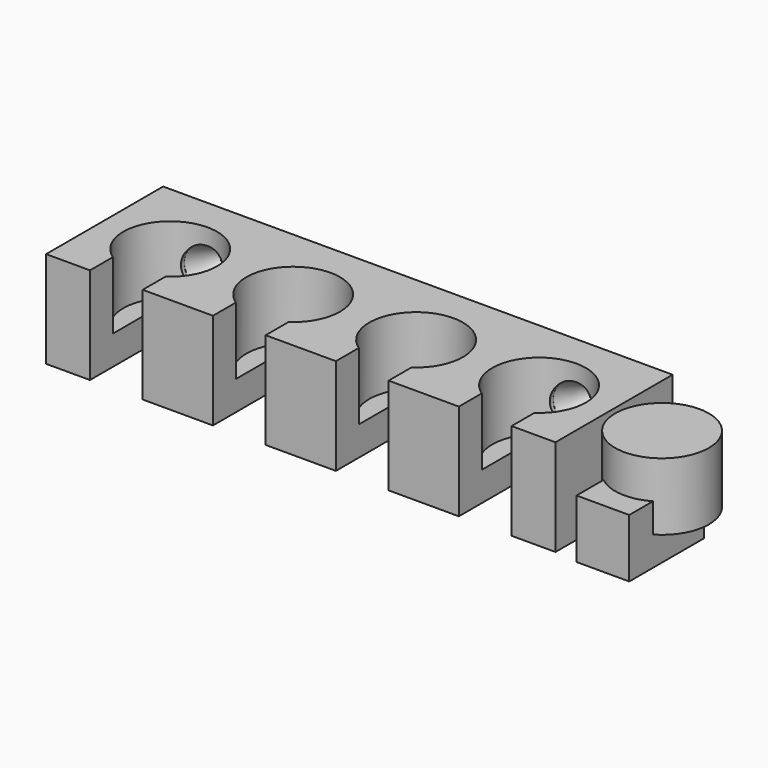
from build123d import *

# Parameters (mm, degrees)
BOX_W                  = 9
BOX_H                  = 16
BOX_DEPTH              = 10
CYLINDER_R             = 8
CYLINDER_DEPTH         = 11.5
CONE_ROLL_ANGLE        = 90
CYLINDER005_R          = 1.6
CYLINDER005_DEPTH      = 10
CYLINDER005_ROLL_ANGLE = 90
CYLINDER006_R          = 3.8
CYLINDER006_DEPTH      = 2
CYLINDER006_ROLL_ANGLE = 90
CONE001_ROLL_ANGLE     = 90
CYLINDER007_R          = 1.6
CYLINDER007_DEPTH      = 10
CYLINDER007_ROLL_ANGLE = 90
CYLINDER008_R          = 3.8
CYLINDER008_DEPTH      = 2
CYLINDER008_ROLL_ANGLE = 90
BOX002_W               = 9
BOX002_H               = 16
BOX002_DEPTH           = 18
CYLINDER002_R          = 8
CYLINDER002_DEPTH      = 11.5
BOX005_W               = 9
BOX005_H               = 16
BOX005_DEPTH           = 18
CYLINDER003_R          = 8
CYLINDER003_DEPTH      = 11.5
CYLINDER004_R          = 8
CYLINDER004_DEPTH      = 11.5
BOX003_W               = 9
BOX003_H               = 16
BOX003_DEPTH           = 18
BOX004_W               = 9
BOX004_H               = 16
BOX004_DEPTH           = 18
CYLINDER001_R          = 8
CYLINDER001_DEPTH      = 11.5
BOX001_W               = 87
BOX001_H               = 25
BOX001_DEPTH           = 16.5


with BuildPart() as cube:
    # Box → Box (new body)
    with BuildSketch(Plane(origin=(-5, -19, 0), x_dir=(1, 0, 0), z_dir=(0, 0, 1))):
        with Locations((4.5, 8)):
            Rectangle(BOX_W, BOX_H)
    extrude(amount=BOX_DEPTH)


with BuildPart() as cylinder:
    # Cylinder → Cylinder (new body)
    with BuildSketch(Plane(origin=(0, -7, 5), x_dir=(1, 0, 0), z_dir=(0, 0, 1))):
        Circle(CYLINDER_R)
    extrude(amount=CYLINDER_DEPTH)


with BuildPart() as cone:
    # Cone → Cone (revolve)
    with BuildSketch(Plane.XZ):
        Polygon((0, 0), (1.5, 0), (3.8, 4.7), (0, 4.7), align=None)
    revolve(axis=Axis((0, 0, 0), (0, 0, 1)))


with BuildPart() as cone_1:
    # Cone roll: moved
    add(cone.part.rotate(Axis((0, 0, 0), (1, 0, 0)), CONE_ROLL_ANGLE))


with BuildPart() as cone_2:
    # Cone placement: moved
    add(cone_1.part.moved(Location((-21, 0, 10))))


with BuildPart() as cylinder005:
    # Cylinder005 → Cylinder005 (new body)
    with BuildSketch(Plane.XY):
        Circle(CYLINDER005_R)
    extrude(amount=CYLINDER005_DEPTH)


with BuildPart() as cylinder005_1:
    # Cylinder005 roll: moved
    add(cylinder005.part.rotate(Axis((0, 0, 0), (1, 0, 0)), CYLINDER005_ROLL_ANGLE))


with BuildPart() as cylinder005_2:
    # Cylinder005 placement: moved
    add(cylinder005_1.part.moved(Location((-21, 10, 10))))


with BuildPart() as obj1:
    # Cylinder006 → Cylinder006 (new body)
    with BuildSketch(Plane.XY):
        Circle(CYLINDER006_R)
    extrude(amount=CYLINDER006_DEPTH)


with BuildPart() as obj1_1:
    # Cylinder006 roll: moved
    add(obj1.part.rotate(Axis((0, 0, 0), (1, 0, 0)), CYLINDER006_ROLL_ANGLE))


with BuildPart() as obj1_2:
    # Cylinder006 placement: moved
    add(obj1_1.part.moved(Location((-21, -4.7, 10))))

    # Fusion004: union Cone, Cylinder005
    add(cone_2.part)
    add(cylinder005_2.part)


with BuildPart() as obj1_3:
    # Fusion004 placement: moved
    add(obj1_2.part.moved(Location((0, 5.5, 0))))


with BuildPart() as cone001:
    # Cone001 → Cone001 (revolve)
    with BuildSketch(Plane.XZ):
        Polygon((0, 0), (1.5, 0), (3.8, 4.7), (0, 4.7), align=None)
    revolve(axis=Axis((0, 0, 0), (0, 0, 1)))


with BuildPart() as cone001_1:
    # Cone001 roll: moved
    add(cone001.part.rotate(Axis((0, 0, 0), (1, 0, 0)), CONE001_ROLL_ANGLE))


with BuildPart() as cone001_2:
    # Cone001 placement: moved
    add(cone001_1.part.moved(Location((-21, 0, 10))))


with BuildPart() as cylinder007:
    # Cylinder007 → Cylinder007 (new body)
    with BuildSketch(Plane.XY):
        Circle(CYLINDER007_R)
    extrude(amount=CYLINDER007_DEPTH)


with BuildPart() as cylinder007_1:
    # Cylinder007 roll: moved
    add(cylinder007.part.rotate(Axis((0, 0, 0), (1, 0, 0)), CYLINDER007_ROLL_ANGLE))


with BuildPart() as cylinder007_2:
    # Cylinder007 placement: moved
    add(cylinder007_1.part.moved(Location((-21, 10, 10))))


with BuildPart() as obj2:
    # Cylinder008 → Cylinder008 (new body)
    with BuildSketch(Plane.XY):
        Circle(CYLINDER008_R)
    extrude(amount=CYLINDER008_DEPTH)


with BuildPart() as obj2_1:
    # Cylinder008 roll: moved
    add(obj2.part.rotate(Axis((0, 0, 0), (1, 0, 0)), CYLINDER008_ROLL_ANGLE))


with BuildPart() as obj2_2:
    # Cylinder008 placement: moved
    add(obj2_1.part.moved(Location((-21, -4.7, 10))))

    # Fusion005: union Cone001, Cylinder007
    add(cone001_2.part)
    add(cylinder007_2.part)


with BuildPart() as obj2_3:
    # Fusion005 placement: moved
    add(obj2_2.part.moved(Location((-63, 5.5, 0))))

    # Fusion006: union obj1
    add(obj1_3.part)


with BuildPart() as cube002:
    # Box002 → Box002 (new body)
    with BuildSketch(Plane(origin=(-25.5, -19, 0), x_dir=(1, 0, 0), z_dir=(0, 0, 1))):
        with Locations((4.5, 8)):
            Rectangle(BOX002_W, BOX002_H)
    extrude(amount=BOX002_DEPTH)


with BuildPart() as cylinder002:
    # Cylinder002 → Cylinder002 (new body)
    with BuildSketch(Plane(origin=(-42, -7, 5), x_dir=(1, 0, 0), z_dir=(0, 0, 1))):
        Circle(CYLINDER002_R)
    extrude(amount=CYLINDER002_DEPTH)


with BuildPart() as cube005:
    # Box005 → Box005 (new body)
    with BuildSketch(Plane(origin=(-88.5, -19, 0), x_dir=(1, 0, 0), z_dir=(0, 0, 1))):
        with Locations((4.5, 8)):
            Rectangle(BOX005_W, BOX005_H)
    extrude(amount=BOX005_DEPTH)


with BuildPart() as cylinder003:
    # Cylinder003 → Cylinder003 (new body)
    with BuildSketch(Plane(origin=(-63, -7, 5), x_dir=(1, 0, 0), z_dir=(0, 0, 1))):
        Circle(CYLINDER003_R)
    extrude(amount=CYLINDER003_DEPTH)


with BuildPart() as cylinder004:
    # Cylinder004 → Cylinder004 (new body)
    with BuildSketch(Plane(origin=(-84, -7, 5), x_dir=(1, 0, 0), z_dir=(0, 0, 1))):
        Circle(CYLINDER004_R)
    extrude(amount=CYLINDER004_DEPTH)


with BuildPart() as cube003:
    # Box003 → Box003 (new body)
    with BuildSketch(Plane(origin=(-46.5, -19, 0), x_dir=(1, 0, 0), z_dir=(0, 0, 1))):
        with Locations((4.5, 8)):
            Rectangle(BOX003_W, BOX003_H)
    extrude(amount=BOX003_DEPTH)


with BuildPart() as cube004:
    # Box004 → Box004 (new body)
    with BuildSketch(Plane(origin=(-67.5, -19, 0), x_dir=(1, 0, 0), z_dir=(0, 0, 1))):
        with Locations((4.5, 8)):
            Rectangle(BOX004_W, BOX004_H)
    extrude(amount=BOX004_DEPTH)


with BuildPart() as fusion:
    # Cylinder001 → Cylinder001 (new body)
    with BuildSketch(Plane(origin=(-21, -7, 5), x_dir=(1, 0, 0), z_dir=(0, 0, 1))):
        Circle(CYLINDER001_R)
    extrude(amount=CYLINDER001_DEPTH)

    # Fusion: union Cube002, Cylinder002, Cube005, Cylinder003, Cylinder004, Cube003, Cube004
    add(cube002.part)
    add(cylinder002.part)
    add(cube005.part)
    add(cylinder003.part)
    add(cylinder004.part)
    add(cube003.part)
    add(cube004.part)


with BuildPart() as cut001:
    # Box001 → Box001 (new body)
    with BuildSketch(Plane(origin=(-96, -18.5, 0), x_dir=(1, 0, 0), z_dir=(0, 0, 1))):
        with Locations((43.5, 12.5)):
            Rectangle(BOX001_W, BOX001_H)
    extrude(amount=BOX001_DEPTH)

    # Cut: cut Fusion
    add(fusion.part, mode=Mode.SUBTRACT)

    # Cut001: cut obj2
    add(obj2_3.part, mode=Mode.SUBTRACT)


solid = Compound([cube.part, cylinder.part, cut001.part])
